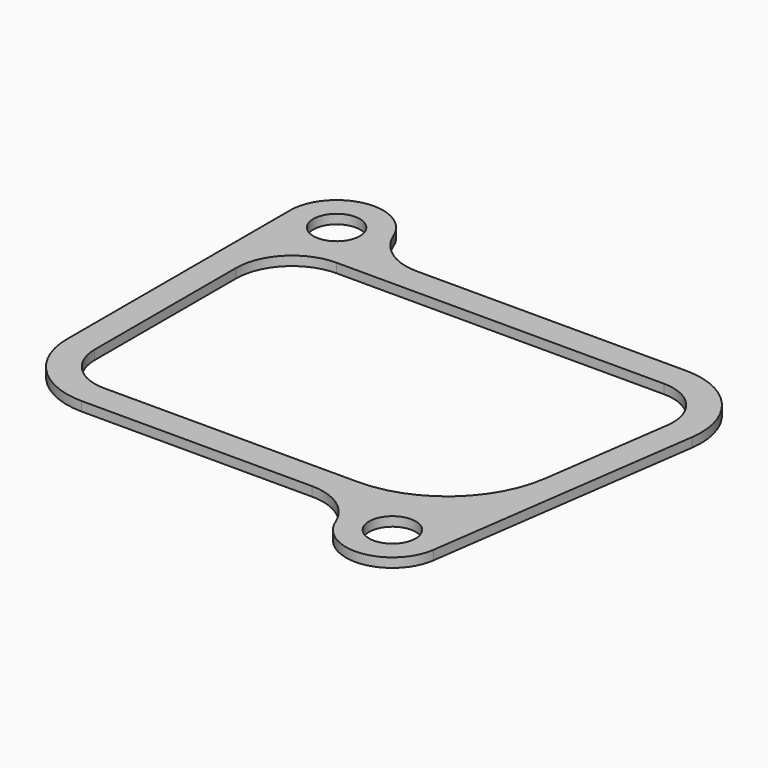
from build123d import *

# Parameters (mm, degrees)
SKETCH_R  = 5
PAD_DEPTH = 2


with BuildPart() as part:
    # Sketch → Pad (new body)
    with BuildSketch(Plane.XY):
        with BuildLine():
            Line((-52.333898, 55.022503), (5.545685, 55.022503))
            ThreePointArc((21.389974, 36.795733), (17.621038, 49.519447), (5.545685, 55.022503))
            Line((13.074881, -22.369229), (21.389974, 36.795733))
            ThreePointArc((-6.14321, -24.613861), (4.332293, -30.909979), (13.074881, -22.369229))
            ThreePointArc((-6.14321, -24.613861), (-10.552788, -19.068824), (-17.321701, -16.977497))
            Line((-17.321701, -16.977497), (-66.8278, -16.977497))
            ThreePointArc((-82.8278, -0.977497), (-78.141508, -12.291206), (-66.8278, -16.977497))
            Line((-82.8278, -0.977497), (-82.8278, 59.022503))
            ThreePointArc((-63.51239, 62.658866), (-74.677922, 68.849865), (-82.8278, 59.022503))
            ThreePointArc((-63.51239, 62.658866), (-59.102811, 57.113829), (-52.333898, 55.022503))
        make_face()
        with Locations((3.1722, -20.977497)):
            Circle(SKETCH_R, mode=Mode.SUBTRACT)
        with Locations((-72.8278, 59.022503)):
            Circle(SKETCH_R, mode=Mode.SUBTRACT)
        with BuildLine():
            Line((-64.8278, 49.022503), (5.545685, 49.022503))
            ThreePointArc((15.448366, 37.630771), (13.092781, 45.583093), (5.545685, 49.022503))
            Line((15.448366, 37.630771), (11.520471, 9.682348))
            ThreePointArc((-12.245963, -10.977497), (3.499454, -5.090527), (11.520471, 9.682348))
            Line((-12.245963, -10.977497), (-66.8278, -10.977497))
            ThreePointArc((-76.8278, -0.977497), (-73.898868, -8.048565), (-66.8278, -10.977497))
            Line((-76.8278, -0.977497), (-76.8278, 37.022503))
            ThreePointArc((-64.8278, 49.022503), (-73.313081, 45.507784), (-76.8278, 37.022503))
        make_face(mode=Mode.SUBTRACT)
    extrude(amount=PAD_DEPTH)


solid = part.part
